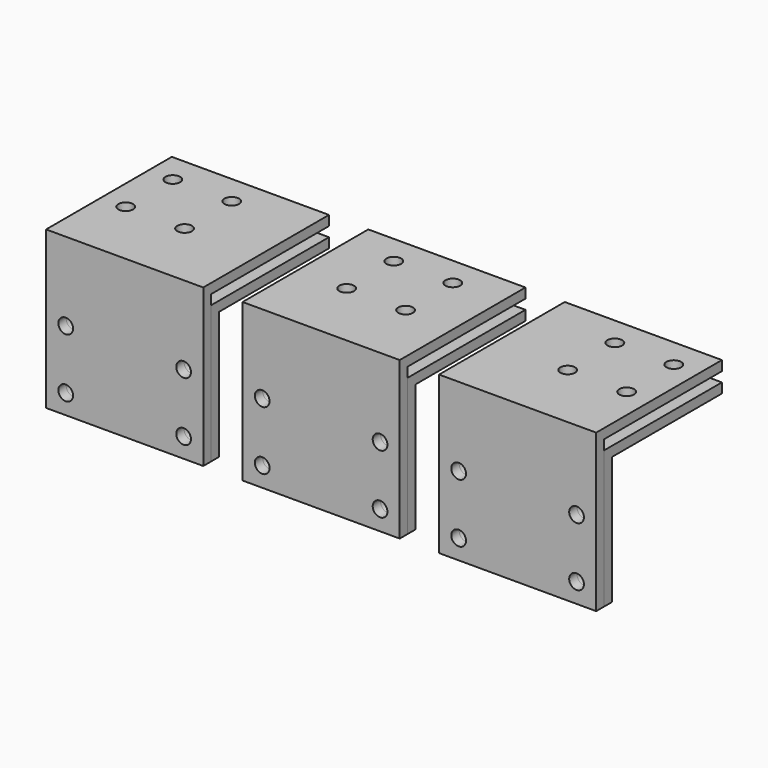
from build123d import *

# Parameters (mm, degrees)
F1_DEPTH = 177.8
F3_DEPTH = 177.8
F4_W     = 25.4
F4_H     = 101.6
F4_R     = 4.7625
F5_DEPTH = 101.601
F6_R     = 4.7625
F7_DEPTH = 101.601


with BuildPart() as f1:
    # F0 (on Right) → F1 (new body, symmetric)
    with BuildSketch(Plane.YZ):
        Polygon((0, 101.6), (0, 0), (6.35, 0), (6.35, 95.25), (101.6, 95.25), (101.6, 101.6), align=None)
    extrude(amount=F1_DEPTH, both=True)


with BuildPart() as f3:
    # F2 (on Right) → F3 (new body, symmetric)
    with BuildSketch(Plane.YZ):
        Polygon((6.35, 88.9), (6.35, 0), (12.7, 0), (12.7, 82.55), (101.6, 82.55), (101.6, 88.9), align=None)
    extrude(amount=F3_DEPTH, both=True)


with BuildPart() as f5_tool:
    # F4 (on face) → F5 (new body, through all)
    with BuildSketch(Plane.XZ):
        with Locations((-63.5, 50.8)):
            Rectangle(F4_W, F4_H)
        with Locations((63.5, 50.8)):
            Rectangle(F4_W, F4_H)
        with Locations((-165.1, 12.7)):
            Circle(F4_R)
        with Locations((-165.1, 50.8)):
            Circle(F4_R)
        with Locations((-88.9, 50.8)):
            Circle(F4_R)
        with Locations((-88.9, 12.7)):
            Circle(F4_R)
        with Locations((-38.1, 50.8)):
            Circle(F4_R)
        with Locations((-38.1, 12.7)):
            Circle(F4_R)
        with Locations((38.1, 50.8)):
            Circle(F4_R)
        with Locations((38.1, 12.7)):
            Circle(F4_R)
        with Locations((88.9, 50.8)):
            Circle(F4_R)
        with Locations((88.9, 12.7)):
            Circle(F4_R)
        with Locations((165.1, 50.8)):
            Circle(F4_R)
        with Locations((165.1, 12.7)):
            Circle(F4_R)
    extrude(amount=-F5_DEPTH)


with BuildPart() as f1_1:
    add(f1.part)

    # F5: cut by f5_tool
    add(f5_tool.part, mode=Mode.SUBTRACT)


with BuildPart() as f3_1:
    add(f3.part)

    # F5: cut by f5_tool
    add(f5_tool.part, mode=Mode.SUBTRACT)


with BuildPart() as f7_tool:
    # F6 (on face) → F7 (new body, through all)
    with BuildSketch(Plane.XY.offset(101.6)):
        with Locations((-161.925, 82.55)):
            Circle(F6_R)
        with Locations((-123.825, 82.55)):
            Circle(F6_R)
        with Locations((-123.825, 44.45)):
            Circle(F6_R)
        with Locations((-161.925, 44.45)):
            Circle(F6_R)
        with Locations((-19.05, 82.55)):
            Circle(F6_R)
        with Locations((19.05, 44.45)):
            Circle(F6_R)
        with Locations((19.05, 82.55)):
            Circle(F6_R)
        with Locations((-19.05, 44.45)):
            Circle(F6_R)
        with Locations((123.825, 82.55)):
            Circle(F6_R)
        with Locations((161.925, 44.45)):
            Circle(F6_R)
        with Locations((161.925, 82.55)):
            Circle(F6_R)
        with Locations((123.825, 44.45)):
            Circle(F6_R)
    extrude(amount=-F7_DEPTH)


with BuildPart() as f1_2:
    add(f1_1.part)

    # F7: cut by f7_tool
    add(f7_tool.part, mode=Mode.SUBTRACT)


with BuildPart() as f3_2:
    add(f3_1.part)

    # F7: cut by f7_tool
    add(f7_tool.part, mode=Mode.SUBTRACT)


solid = Compound([f1_2.part, f3_2.part])
